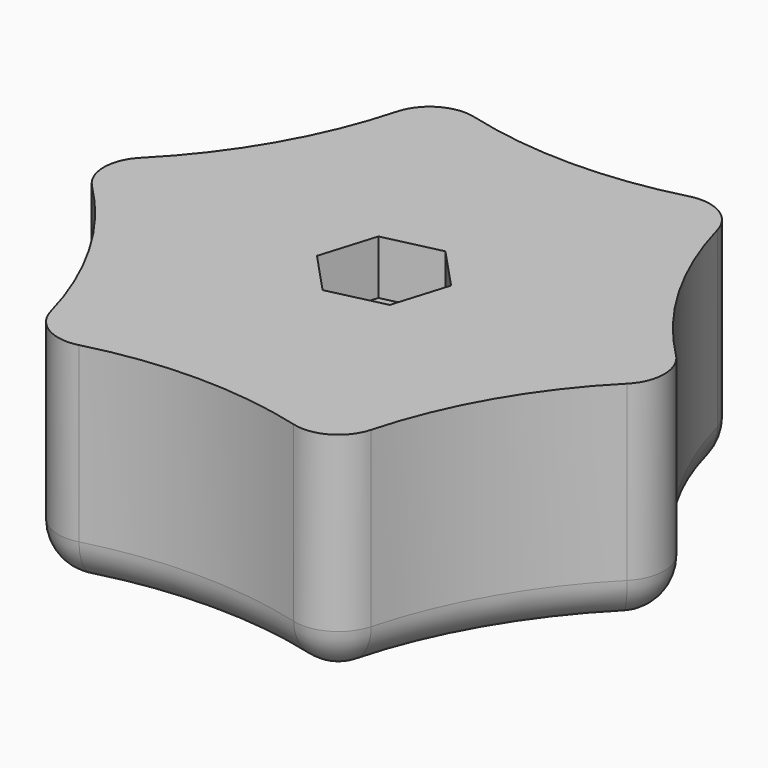
from build123d import *

# Parameters (mm, degrees)
F1_DEPTH = 25.4
F2_R     = 3.425
F3_DEPTH = 25.4
F4_R     = 5.08
F6_DEPTH = 6.35


with BuildPart() as f1:
    # F0 (on Top) → F1 (new body)
    with BuildSketch(Plane.XY):
        with BuildLine():
            ThreePointArc((-17.6783595035, -30.6198168546), (0, -27.3250688074), (17.6783595035, -30.6198168546))
            ThreePointArc((17.6783595035, -30.6198168546), (23.6642037473, -13.6625344037), (35.3567190071, 0))
            ThreePointArc((35.3567190071, 0), (23.6642037473, 13.6625344037), (17.6783595035, 30.6198168546))
            ThreePointArc((17.6783595035, 30.6198168546), (0, 27.3250688074), (-17.6783595035, 30.6198168546))
            ThreePointArc((-17.6783595035, 30.6198168546), (-23.6642037473, 13.6625344037), (-35.3567190071, 0))
            ThreePointArc((-35.3567190071, 0), (-23.6642037473, -13.6625344037), (-17.6783595035, -30.6198168546))
        make_face()
    extrude(amount=F1_DEPTH)

    # F2 (on face) → F3 (cut)
    with BuildSketch(Plane.XY.offset(25.4)):
        Circle(F2_R)
    extrude(amount=-F3_DEPTH, mode=Mode.SUBTRACT)

    # F4
    f4_edges = [f1.edges().sort_by_distance(p)[0] for p in [
        (-35.356719, 0, 12.7),
        (-17.67836, -30.619817, 12.7),
        (17.67836, -30.619817, 12.7),
        (35.356719, 0, 12.7),
        (17.67836, 30.619817, 12.7),
        (-17.67836, 30.619817, 12.7),
        (0, -27.325069, 0),
        (-23.664204, -13.662534, 0),
        (23.664204, -13.662534, 0),
        (-23.664204, 13.662534, 0),
        (23.664204, 13.662534, 0),
        (0, 27.325069, 0),
        (-3.425, 0, 0),
    ]]
    fillet(f4_edges, radius=F4_R)

    # F5 (on face) → F6 (cut)
    with BuildSketch(Plane.XY.offset(25.4)):
        Polygon((-1.9887100499, -6.5160084155), (4.6486737941, -4.9802776317), (6.637383844, 1.5357307838), (1.9887100499, 6.5160084155), (-4.6486737941, 4.9802776317), (-6.637383844, -1.5357307838), align=None)
    extrude(amount=-F6_DEPTH, mode=Mode.SUBTRACT)


solid = f1.part
